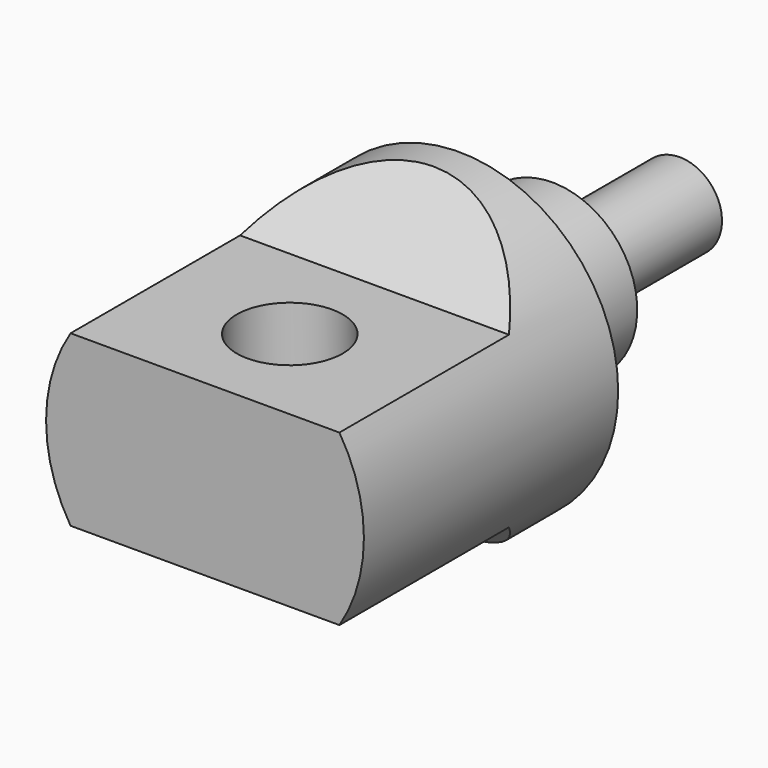
from build123d import *

# Parameters (mm, degrees)
F0_R      = 15
F1_DEPTH  = 30
F3_W      = 30
F3_H      = 20
F4_DEPTH  = 7
F6_W      = 30
F6_H      = 20
F7_DEPTH  = 7
F10_DEPTH = 30
F11_R     = 8
F12_DEPTH = 11
F13_R     = 4
F14_DEPTH = 15
F15_R     = 5
F16_DEPTH = 23.001


with BuildPart() as f1:
    # F0 (on Front) → F1 (new body)
    with BuildSketch(Plane.XZ):
        Circle(F0_R)
    extrude(amount=F1_DEPTH)

    # F3 (on offset) → F4 (cut)
    with BuildSketch(Plane.XY.offset(15)):
        with Locations((0, -20)):
            Rectangle(F3_W, F3_H)
    extrude(amount=-F4_DEPTH, mode=Mode.SUBTRACT)

    # F6 (on offset) → F7 (cut)
    with BuildSketch(Plane.XY.offset(-15)):
        with Locations((0, -20)):
            Rectangle(F6_W, F6_H)
    extrude(amount=F7_DEPTH, mode=Mode.SUBTRACT)

    # F9 (on offset) → F10 (cut)
    with BuildSketch(Plane.YZ.offset(15)):
        Polygon((-3, 15), (-10, 15), (-10, 8), align=None)
        Polygon((-10, -15), (-3, -15), (-10, -8), align=None)
    extrude(amount=-F10_DEPTH, mode=Mode.SUBTRACT)

    # F11 (on face) → F12 (join)
    with BuildSketch(Plane(origin=(0, 0, 0), x_dir=(-1, 0, 0), z_dir=(0, 1, 0))):
        Circle(F11_R)
    extrude(amount=F12_DEPTH)

    # F13 (on face) → F14 (join)
    with BuildSketch(Plane(origin=(0, 11, 0), x_dir=(-1, 0, 0), z_dir=(0, 1, 0))):
        Circle(F13_R)
    extrude(amount=F14_DEPTH)

    # F15 (on face) → F16 (cut, through all)
    with BuildSketch(Plane.XY.offset(8)):
        with Locations((0, -20)):
            Circle(F15_R)
    extrude(amount=-F16_DEPTH, mode=Mode.SUBTRACT)


solid = f1.part
